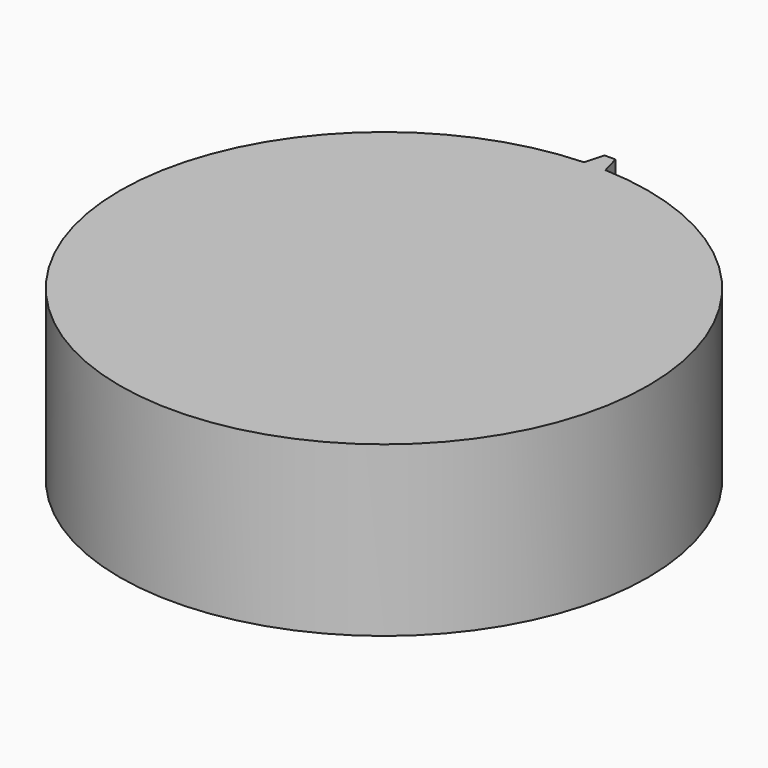
from build123d import *

# Parameters (mm, degrees)
F1_DEPTH = 25


with BuildPart() as f1:
    # F0 (on Top) → F1 (new body)
    with BuildSketch(Plane.XY):
        with BuildLine():
            ThreePointArc((-1.625688172, 39.0992770976), (-27.0903874088, -28.2401707082), (39.133059318, 0))
            ThreePointArc((39.133059318, 0), (28.2076700365, 27.124226859), (1.5319263874, 39.1030629635))
            Line((1.5319263874, 39.1030629635), (-1.625688172, 39.0992770976))
        make_face()
        with BuildLine():
            Line((-1.625688172, 39.0992770976), (1.5319263874, 39.1030629635))
            ThreePointArc((1.5319263874, 39.1030629635), (-0.0469190927, 39.1330311909), (-1.625688172, 39.0992770976))
        make_face()
        with BuildLine():
            ThreePointArc((-1.625688172, 39.0992770976), (-0.0469190927, 39.1330311909), (1.5319263874, 39.1030629635))
            Line((1.5319263874, 39.1030629635), (0.7546636043, 41.9192612171))
            Line((0.7546636043, 41.9192612171), (-0.8558482514, 41.9192612171))
            Line((-0.8558482514, 41.9192612171), (-1.625688172, 39.0992770976))
        make_face()
    extrude(amount=F1_DEPTH)


solid = f1.part
